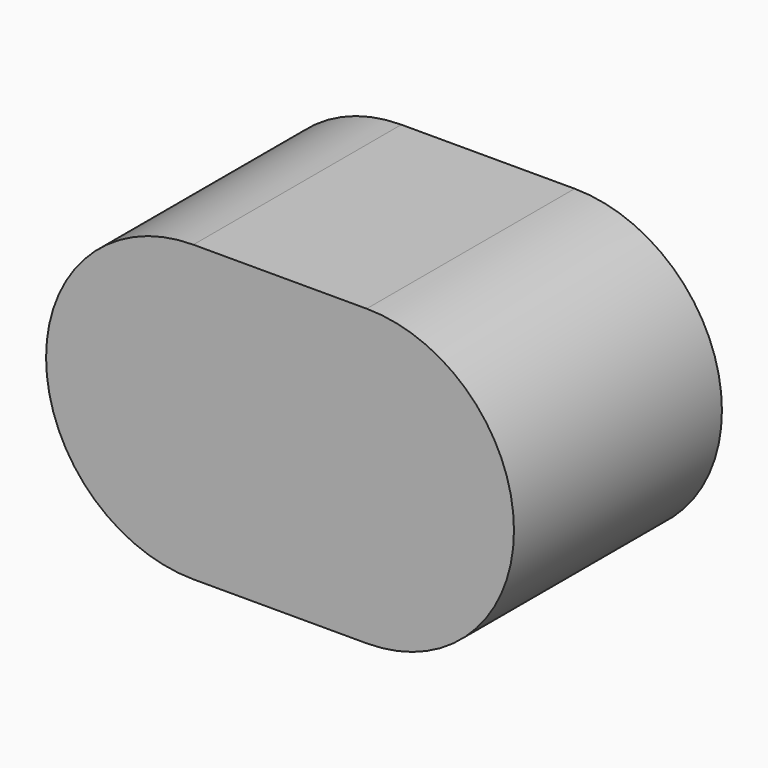
from build123d import *

# Parameters (mm, degrees)
CYLINDER_R        = 1.7
CYLINDER_DEPTH    = 3
CYLINDER001_R     = 1.7
CYLINDER001_DEPTH = 3
BOX002_W          = 2
BOX002_H          = 3
BOX002_DEPTH      = 3.4


with BuildPart() as cylinder:
    # Cylinder → Cylinder (new body)
    with BuildSketch(Plane(origin=(-1, 0, 0), x_dir=(1, 0, 0), z_dir=(0, -1, 0))):
        Circle(CYLINDER_R)
    extrude(amount=CYLINDER_DEPTH)


with BuildPart() as cylinder001:
    # Cylinder001 → Cylinder001 (new body)
    with BuildSketch(Plane(origin=(1, 0, 0), x_dir=(1, 0, 0), z_dir=(0, -1, 0))):
        Circle(CYLINDER001_R)
    extrude(amount=CYLINDER001_DEPTH)


with BuildPart() as hole_range:
    # Box002 → Box002 (new body)
    with BuildSketch(Plane(origin=(-1, -3, -1.7), x_dir=(1, 0, 0), z_dir=(0, 0, 1))):
        with Locations((1, 1.5)):
            Rectangle(BOX002_W, BOX002_H)
    extrude(amount=BOX002_DEPTH)

    # Fusion: union Cylinder, Cylinder001
    add(cylinder.part)
    add(cylinder001.part)


solid = hole_range.part
